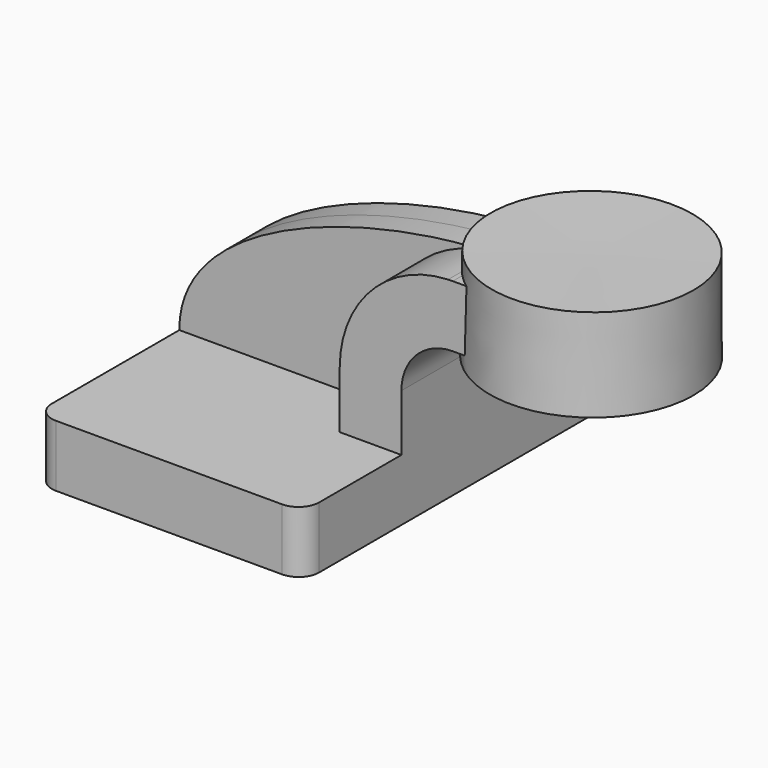
from build123d import *

# Parameters (mm, degrees)
F1_DEPTH = 63.5
F2_DEPTH = 25.4
F3_DEPTH = 7.9375
F5_R     = 6.35


with BuildPart() as f1:
    # F0 (on Front) → F1 (new body, symmetric)
    with BuildSketch(Plane.XZ):
        Polygon((-41.275, 9.525), (-41.275, -9.525), (41.275, -9.525), (41.275, 9.525), (22.225, 9.525), align=None)
    extrude(amount=F1_DEPTH, both=True)

    # F0 (on Front) → F2 (join, symmetric)
    with BuildSketch(Plane.XZ):
        Polygon((79.7655956935, 61.9252), (60.325, 61.9252), (60.325, 42.8752), (79.5641856105, 42.8752), align=None)
        with BuildLine():
            Line((22.225, 9.525), (41.275, 9.525))
            Line((41.275, 9.525), (41.275, 27.0002))
            ThreePointArc((41.275, 27.0002), (45.9246798487, 38.2255201513), (57.15, 42.8752))
            Line((57.15, 42.8752), (60.325, 42.8752))
            Line((60.325, 42.8752), (60.325, 61.9252))
            Line((60.325, 61.9252), (57.15, 61.9252))
            add(Edge.make_bspline(
                [(55.693596433, 61.8948201247), (56.1824633376, 61.9077141439), (56.6679863057, 61.9178418733), (57.15, 61.9252)],
                knots=[110.0991470384, 110.0991470384, 110.0991470384, 110.0991470384, 111.5045361635, 111.5045361635, 111.5045361635, 111.5045361635], degree=3))
            ThreePointArc((55.693596433, 61.8948201247), (31.944638273, 51.1755048628), (22.225, 27.0002))
            Line((22.225, 27.0002), (22.225, 9.525))
        make_face()
    extrude(amount=F2_DEPTH, both=True)

    # F0 (on Front) → F3 (join, symmetric)
    with BuildSketch(Plane.XZ):
        with BuildLine():
            add(Edge.make_bspline(
                [(-41.275, 9.525), (-41.4253577481, 42.8971199806), (17.395428152, 60.8846938277), (55.693596433, 61.8948201247)],
                knots=[0, 0, 0, 0, 110.0991470384, 110.0991470384, 110.0991470384, 110.0991470384], degree=3))
            Line((-41.275, 9.525), (22.225, 9.525))
            Line((22.225, 9.525), (22.225, 27.0002))
            ThreePointArc((22.225, 27.0002), (31.944638273, 51.1755048628), (55.693596433, 61.8948201247))
        make_face()
    extrude(amount=F3_DEPTH, both=True)

    # F0 (on Front) → F4 (revolve)
    with BuildSketch(Plane.XZ):
        Polygon((79.8158139409, 66.675), (79.7655956935, 61.9252), (79.5641856105, 42.8752), (79.5136988163, 38.1), (111.125, 38.1), (111.125, 66.675), align=None)
    revolve(axis=Axis((79.6647563786, 0, 52.3875), (0.0105721169, 0, 0.9999441136)))

    # F5
    f5_edges = [f1.edges().sort_by_distance(p)[0] for p in [
        (41.275, -63.5, 0),
        (-41.275, -63.5, 0),
        (-41.275, 63.5, 0),
        (41.275, 63.5, 0),
    ]]
    fillet(f5_edges, radius=F5_R)


solid = f1.part
